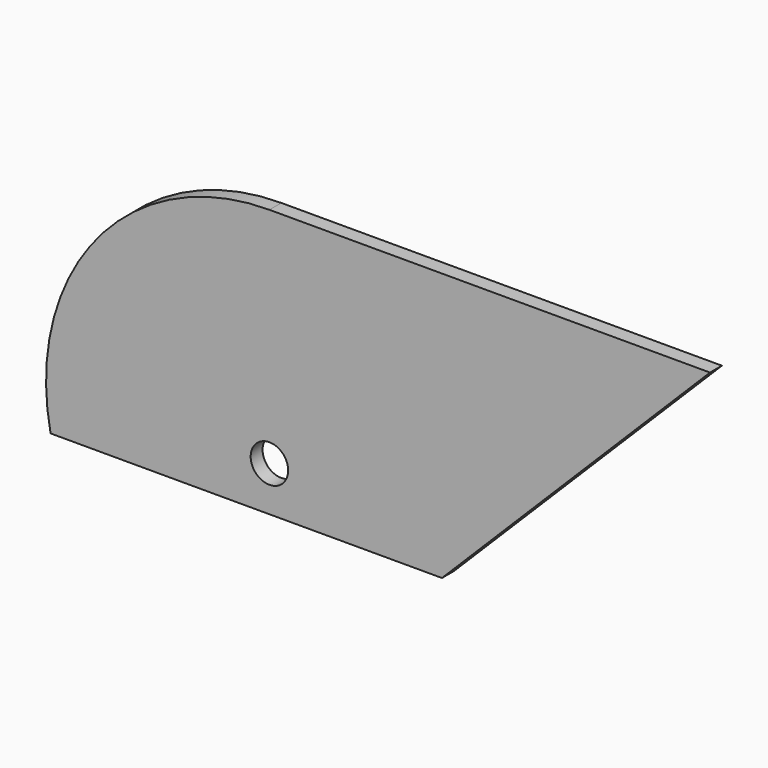
from build123d import *

# Parameters (mm, degrees)
F2_R     = 2
F3_DEPTH = 1.5875


with BuildPart() as f3:
    # F2 (on offset) → F3 (new body)
    with BuildSketch(Plane.XZ.offset(22.225)):
        with BuildLine():
            Line((-64.792564, 23.8125), (-111.76, 23.8125))
            ThreePointArc((-111.76, 23.8125), (-130.205083, 15.060347), (-135.09139, -4.7625))
            Line((-135.09139, -4.7625), (-93.367564, -4.7625))
            Line((-93.367564, -4.7625), (-64.792564, 23.8125))
        make_face()
        with Locations((-111.76, 0)):
            Circle(F2_R, mode=Mode.SUBTRACT)
    extrude(amount=-F3_DEPTH)


solid = f3.part
